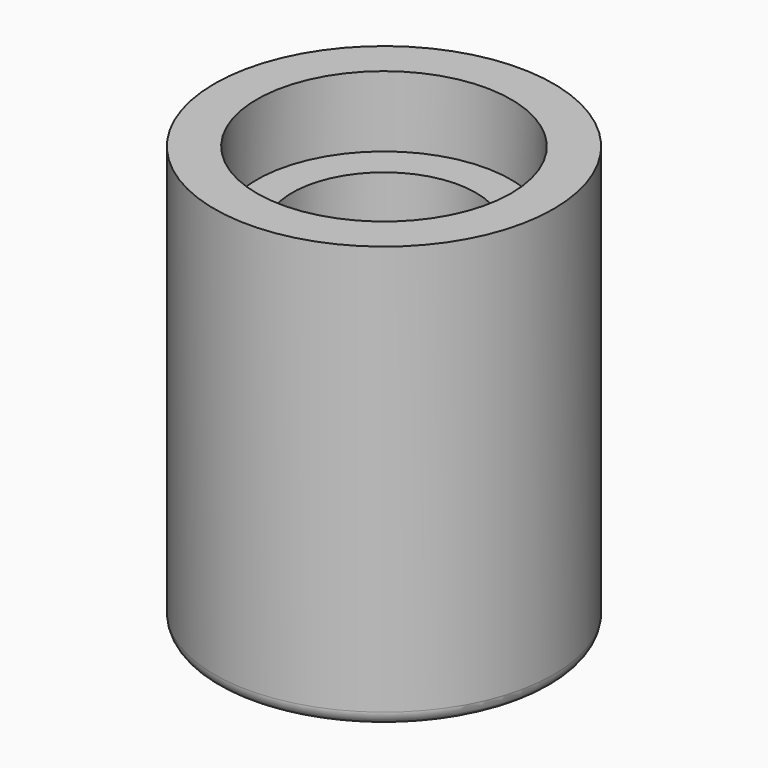
from build123d import *

# Parameters (mm, degrees)
F0_R     = 12
F0_R_2   = 9
F1_DEPTH = 30
F0_R_3   = 6.5
F2_DEPTH = 25
F0_R_4   = 2.9
F3_DEPTH = 17
F0_R_5   = 2.1
F4_DEPTH = 8
F5_R     = 1


with BuildPart() as f1:
    # F0 (on Top) → F1 (new body)
    with BuildSketch(Plane.XY):
        Circle(F0_R)
        Circle(F0_R_2, mode=Mode.SUBTRACT)
    extrude(amount=F1_DEPTH)

    # F0 (on Top) → F2 (join)
    with BuildSketch(Plane.XY):
        Circle(F0_R_2)
        Circle(F0_R_3, mode=Mode.SUBTRACT)
    extrude(amount=F2_DEPTH)

    # F0 (on Top) → F3 (join)
    with BuildSketch(Plane.XY):
        Circle(F0_R_3)
        Circle(F0_R_4, mode=Mode.SUBTRACT)
    extrude(amount=F3_DEPTH)

    # F0 (on Top) → F4 (join)
    with BuildSketch(Plane.XY):
        Circle(F0_R_4)
        Circle(F0_R_5, mode=Mode.SUBTRACT)
    extrude(amount=F4_DEPTH)

    # F5
    f5_edges = [f1.edges().sort_by_distance(p)[0] for p in [
        (-12, 0, 0),
    ]]
    fillet(f5_edges, radius=F5_R)


solid = f1.part
